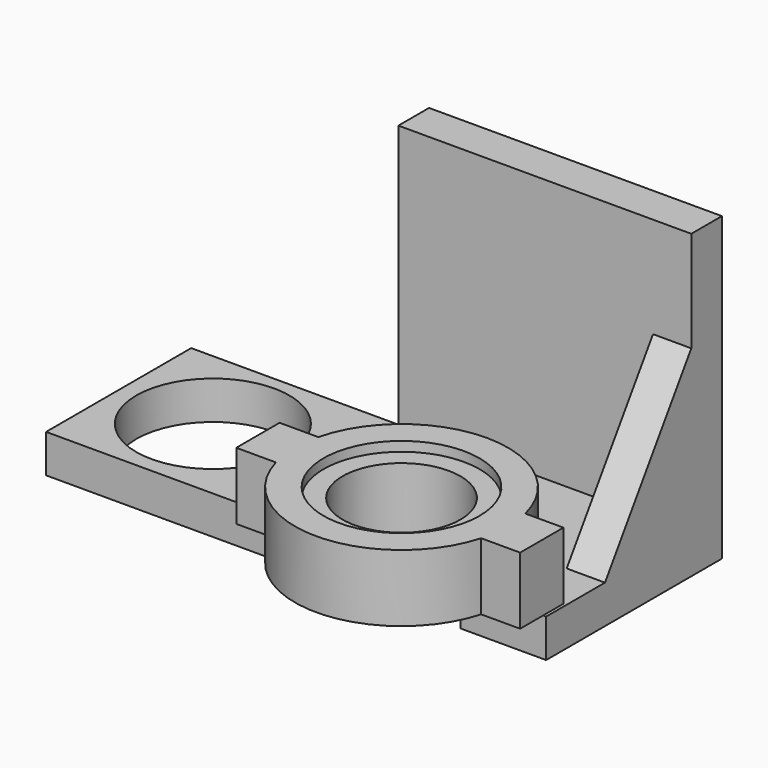
from build123d import *

# Parameters (mm, degrees)
F0_W      = 52.233020775
F0_H      = 18.9497452229
F1_DEPTH  = 4
F2_D      = 16
F4_DEPTH  = 7
F5_R      = 6.15
F6_DEPTH  = 10
F7_R      = 8.15
F8_DEPTH  = 3.72
F9_W      = 30.5920690298
F9_H      = 31.4969494939
F10_DEPTH = 4
F12_DEPTH = 4


with BuildPart() as f1:
    # F0 (on Top) → F1 (new body)
    with BuildSketch(Plane.XY):
        with Locations((-11.0083804466, 9.4748726115)):
            Rectangle(F0_W, F0_H)
    extrude(amount=F1_DEPTH)

    # F2 (through all)
    with Locations(Plane(origin=(0, 0, 0), x_dir=(1, 0, 0), z_dir=(0, 0, -1))):
        with Locations((-27.3946430534, -9.6157854423)):
            Hole(F2_D / 2)

    # F3 (on face) → F4 (join)
    with BuildSketch(Plane.XY.offset(4)):
        with BuildLine():
            Line((-10.8105310121, 2.6503070258), (-14.8572139442, 2.6503070258))
            Line((-14.8572139442, 2.6503070258), (-14.8572139442, -3.0028291512))
            Line((-14.8572139442, -3.0028291512), (-10.7179627347, -3.0028291512))
            ThreePointArc((-10.7179627347, -3.0028291512), (-11.1291732807, -0.1822366147), (-10.8105310121, 2.6503070258))
        make_face()
        with BuildLine():
            ThreePointArc((10.8105310121, 2.6503070258), (0, 11.1306652135), (-10.8105310121, 2.6503070258))
            ThreePointArc((-10.8105310121, 2.6503070258), (-11.1291732807, -0.1822366147), (-10.7179627347, -3.0028291512))
            ThreePointArc((-10.7179627347, -3.0028291512), (0, -11.1306652135), (10.7179627347, -3.0028291512))
            ThreePointArc((10.7179627347, -3.0028291512), (11.1291732807, -0.1822366147), (10.8105310121, 2.6503070258))
        make_face()
        with BuildLine():
            Line((14.7918676957, 2.6503070258), (10.8105310121, 2.6503070258))
            ThreePointArc((10.8105310121, 2.6503070258), (11.1291732807, -0.1822366147), (10.7179627347, -3.0028291512))
            Line((10.7179627347, -3.0028291512), (14.7918676957, -3.0028291512))
            Line((14.7918676957, -3.0028291512), (14.7918676957, 2.6503070258))
        make_face()
    extrude(amount=F4_DEPTH)

    # F5 (on Top) → F6 (cut)
    with BuildSketch(Plane.XY):
        Circle(F5_R)
    extrude(amount=F6_DEPTH, mode=Mode.SUBTRACT)

    # F7 (on face) → F8 (cut)
    with BuildSketch(Plane(origin=(0, 0, 10), x_dir=(1, 0, 0), z_dir=(0, 0, -1))):
        Circle(F7_R)
    extrude(amount=-F8_DEPTH, mode=Mode.SUBTRACT)

    # F9 (on face) → F10 (join)
    with BuildSketch(Plane(origin=(0, 18.9497452229, 0), x_dir=(-1, 0, 0), z_dir=(0, 1, 0))):
        with Locations((0.187904574, 15.7484747469)):
            Rectangle(F9_W, F9_H)
    extrude(amount=F10_DEPTH)

    # F11 (on face) → F12 (join)
    with BuildSketch(Plane.YZ.offset(15.1081299409)):
        Polygon((18.9497452229, 20.9649894387), (7.6817818917, 4), (18.9497452229, 4), align=None)
    extrude(amount=-F12_DEPTH)


solid = f1.part
